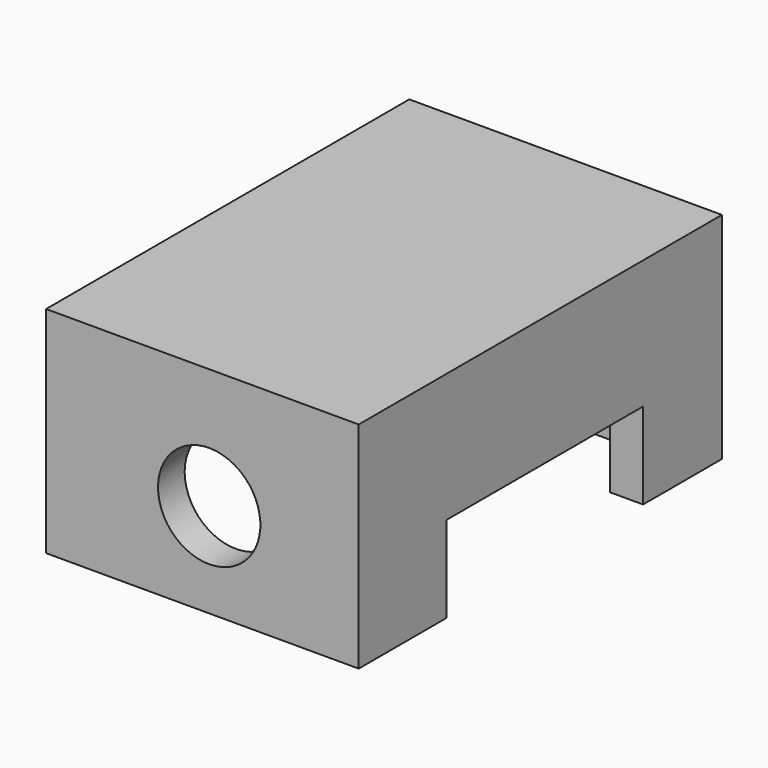
from build123d import *

# Parameters (mm, degrees)
F0_W      = 62.0650928468
F0_H      = 90.1293121278
F1_DEPTH  = 42.672
F2_W      = 48.5726818442
F2_H      = 77.7162946761
F3_DEPTH  = 76.454
F4_W      = 48.5726818442
F4_H      = 77.7162946761
F5_DEPTH  = 0.762
F7_D      = 20.32
F8_W      = 52.8902541846
F8_H      = 23.0720248073
F9_DEPTH  = 43.688
F10_W     = 52.6204034686
F10_H     = 17.9449077696
F12_DEPTH = 25.4
F13_W     = 48.8425306976
F13_H     = 17.1353630722
F14_DEPTH = 25.4


with BuildPart() as f1:
    # F0 (on Top) → F1 (new body)
    with BuildSketch(Plane.XY):
        with Locations((2.9683308676, -0.9444709867)):
            Rectangle(F0_W, F0_H)
    extrude(amount=F1_DEPTH)

    # F2 (on Top) → F3 (cut)
    with BuildSketch(Plane.XY):
        with Locations((3.1032543629, -0.5396958441)):
            Rectangle(F2_W, F2_H)
    extrude(amount=F3_DEPTH, mode=Mode.SUBTRACT)

    # F4 (on face) → F5 (join)
    with BuildSketch(Plane.XY.offset(42.672)):
        with Locations((3.1032543629, -0.5396958441)):
            Rectangle(F4_W, F4_H)
    extrude(amount=-F5_DEPTH)

    # F7 (through all)
    with Locations(Plane.XZ.offset(46.0091270506)):
        with Locations((4.317572806, 18.754452467)):
            Hole(F7_D / 2)

    # F8 (on face) → F9 (cut)
    with BuildSketch(Plane.YZ.offset(34.000877291)):
        with Locations((-2.4286350235, 11.5360124037)):
            Rectangle(F8_W, F8_H)
    extrude(amount=F9_DEPTH, mode=Mode.SUBTRACT)

    # F10 (on face) → F12 (cut)
    with BuildSketch(Plane(origin=(-28.0642155558, 0, 0), x_dir=(0, -1, 0), z_dir=(-1, 0, 0))):
        with Locations((-0.134922564, 8.9724538848)):
            Rectangle(F10_W, F10_H)
    extrude(amount=-F12_DEPTH, mode=Mode.SUBTRACT)

    # F13 (on face) → F14 (cut)
    with BuildSketch(Plane.YZ.offset(34.000877291)):
        with Locations((0.1349244267, 8.5676815361)):
            Rectangle(F13_W, F13_H)
    extrude(amount=-F14_DEPTH, mode=Mode.SUBTRACT)


solid = f1.part
